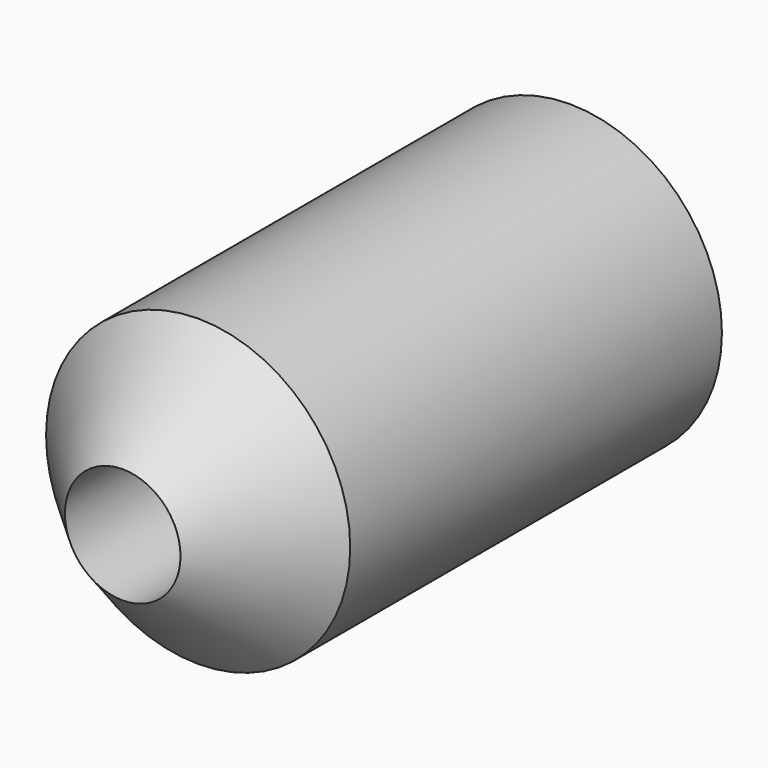
from build123d import *

# Parameters (mm, degrees)
F0_R     = 3.175
F1_DEPTH = 12.7
F2_SIZE  = 3
F4_D     = 2.413
F4_DEPTH = 6.35
F4_START = 1.0315
F4_TIP   = 0.7249383369


with BuildPart() as f1:
    # F0 (on Front) → F1 (new body)
    with BuildSketch(Plane.XZ):
        Circle(F0_R)
    extrude(amount=F1_DEPTH)

    # F2
    f2_edges = [f1.edges().sort_by_distance(p)[0] for p in [
        (-3.175, -12.7, 0),
    ]]
    chamfer(f2_edges, length=F2_SIZE)

    # F4
    # its depths count from where the whole tool has entered the part; down to there all is cleared
    with Locations(Plane.XZ.offset(12.7).offset(-F4_START)):
        with Locations((0, 0)):
            Hole(F4_D / 2, depth=F4_DEPTH)
            with Locations((0, 0, -(F4_DEPTH + F4_TIP / 2))):  # 118° drill point
                Cone(0, F4_D / 2, F4_TIP, mode=Mode.SUBTRACT)


solid = f1.part
